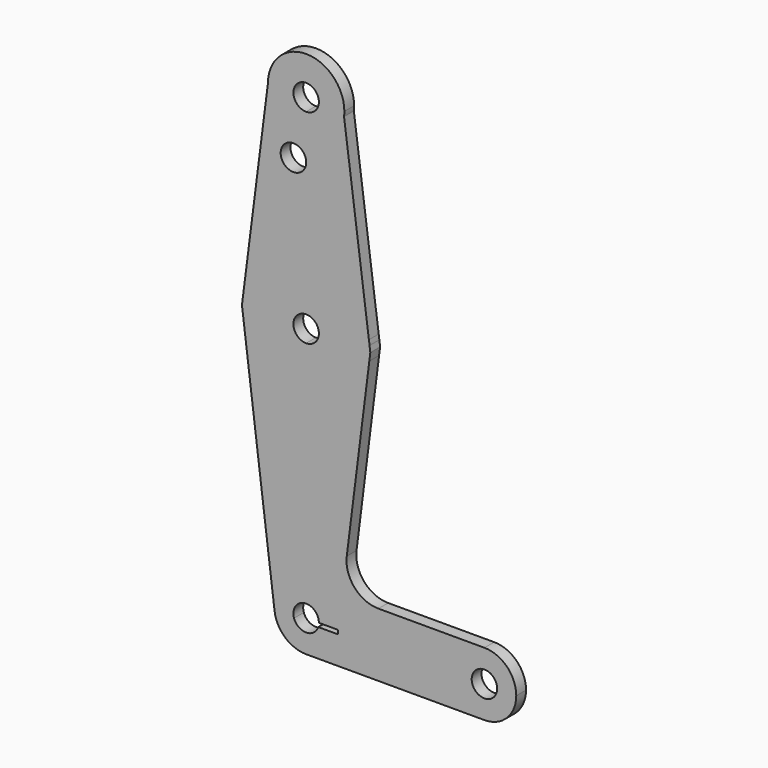
from build123d import *

# Parameters (mm, degrees)
F0_R     = 3.175
F1_DEPTH = 3.048


with BuildPart() as f1:
    # F0 (on Front) → F1 (new body)
    with BuildSketch(Plane.XZ):
        with BuildLine():
            ThreePointArc((-9.525, 50.8), (-6.7351920908, 44.0648079092), (0, 41.275))
            ThreePointArc((0, 41.275), (6.3093081085, 43.6642970779), (9.4533014816, 49.6335026369))
            ThreePointArc((9.4533014816, 49.6335026369), (9.5070584728, 50.2156506234), (9.525, 50.8))
            ThreePointArc((9.525, 50.8), (0, 60.325), (-9.525, 50.8))
        make_face()
        with BuildLine():
            ThreePointArc((3.175, 50.8), (2.2450640303, 48.5549359697), (0, 47.625))
            ThreePointArc((0, 47.625), (-2.2450640303, 53.0450640303), (3.175, 50.8))
        make_face(mode=Mode.SUBTRACT)
        with BuildLine():
            ThreePointArc((9.4533014816, 49.6335026369), (6.3093081085, 43.6642970779), (0, 41.275))
            Line((0, 41.275), (0, 36.5252))
            Line((0, 36.5252), (0, 15.875))
            ThreePointArc((0, 15.875), (10.2323349377, 12.1373368876), (15.646399532, 2.6843633667))
            Line((15.646399532, 2.6843633667), (9.4533014816, 49.6335026369))
        make_face()
        with BuildLine():
            Line((0, 36.5252), (0, 41.275))
            ThreePointArc((0, 41.275), (-6.7351920908, 44.0648079092), (-9.525, 50.8))
            Line((-9.525, 50.8), (-15.7474569171, 2.008289233))
            ThreePointArc((-15.7474569171, 2.008289233), (-10.4912828917, 11.9142187443), (0, 15.875))
            Line((0, 15.875), (0, 36.5252))
        make_face()
        with Locations((-3.175, 36.5252)):
            Circle(F0_R, mode=Mode.SUBTRACT)
        with BuildLine():
            ThreePointArc((15.646399532, 2.6843633667), (10.2323349377, 12.1373368876), (0, 15.875))
            Line((0, 15.875), (0, 3.175))
            ThreePointArc((0, 3.175), (2.2450640303, 2.2450640303), (3.175, 0))
            ThreePointArc((3.175, 0), (2.2450640303, -2.2450640303), (0, -3.175))
            Line((0, -3.175), (0, -15.875))
            ThreePointArc((0, -15.875), (10.5003255684, -11.9062499536), (15.7504882912, -1.9843748607))
            ThreePointArc((15.7504882912, -1.9843748607), (15.8438414948, -0.9941386666), (15.875, 0))
            ThreePointArc((15.875, 0), (15.8580619796, 0.7331406754), (15.807284063, 1.4647168844))
            Line((15.807284063, 1.4647168844), (15.646399532, 2.6843633667))
        make_face()
        with BuildLine():
            Line((0, 3.175), (0, 15.875))
            ThreePointArc((0, 15.875), (-10.4912828917, 11.9142187443), (-15.7474569171, 2.008289233))
            ThreePointArc((-15.7474569171, 2.008289233), (-11.9142187443, -10.4912828917), (0, -15.875))
            Line((0, -15.875), (0, -3.175))
            ThreePointArc((0, -3.175), (-3.175, 0), (0, 3.175))
        make_face()
        with BuildLine():
            ThreePointArc((0, -15.875), (-11.9142187443, -10.4912828917), (-15.7474569171, 2.008289233))
            Line((-15.7474569171, 2.008289233), (-16.0035761028, 0))
            Line((-16.0035761028, 0), (-7.8751974831, -64.4925577322))
            ThreePointArc((-7.8751974831, -64.4925577322), (-5.9532484095, -58.2499771786), (0, -55.5625))
            Line((0, -55.5625), (0, -15.875))
        make_face()
        with BuildLine():
            ThreePointArc((15.807284063, 1.4647168844), (15.7386605945, 2.0760991524), (15.646399532, 2.6843633667))
            Line((15.646399532, 2.6843633667), (15.807284063, 1.4647168844))
        make_face()
        with BuildLine():
            ThreePointArc((15.7504882912, -1.9843748607), (10.5003255684, -11.9062499536), (0, -15.875))
            Line((0, -15.875), (0, -55.5625))
            ThreePointArc((0, -55.5625), (5.6126600757, -57.8873399243), (7.9375, -63.5))
            Line((7.9375, -63.5), (36.5125, -63.5))
            ThreePointArc((36.5125, -63.5), (38.8373399243, -57.8873399243), (44.45, -55.5625))
            Line((44.45, -55.5625), (18.0149584672, -55.5625))
            ThreePointArc((18.0149584672, -55.5625), (12.0523084668, -52.8708630179), (10.1271139399, -46.6185249989))
            Line((10.1271139399, -46.6185249989), (15.7504882912, -1.9843748607))
        make_face()
        with BuildLine():
            Line((16.0004960243, 0), (15.807284063, 1.4647168844))
            ThreePointArc((15.807284063, 1.4647168844), (15.8580619796, 0.7331406754), (15.875, 0))
            ThreePointArc((15.875, 0), (15.8438414948, -0.9941386666), (15.7504882912, -1.9843748607))
            Line((15.7504882912, -1.9843748607), (16.0004960243, 0))
        make_face()
        with BuildLine():
            Line((0, -60.325), (0, -55.5625))
            ThreePointArc((0, -55.5625), (-5.9532484095, -58.2499771786), (-7.8751974831, -64.4925577322))
            Line((-7.8751974831, -64.4925577322), (-3.0158670641, -64.4925577322))
            ThreePointArc((-3.0158670641, -64.4925577322), (-2.5721582183, -61.6386491196), (0, -60.325))
        make_face()
        with BuildLine():
            Line((-3.0158670641, -64.4925577322), (-7.8751974831, -64.4925577322))
            ThreePointArc((-7.8751974831, -64.4925577322), (-5.2500228214, -69.4532484095), (0, -71.4375))
            ThreePointArc((0, -71.4375), (5.2500228214, -69.4532484095), (7.8751974831, -64.4925577322))
            Line((7.8751974831, -64.4925577322), (3.0158670641, -64.4925577322))
            ThreePointArc((3.0158670641, -64.4925577322), (0, -66.675), (-3.0158670641, -64.4925577322))
        make_face()
        with BuildLine():
            Line((36.5125, -63.5), (7.9375, -63.5))
            ThreePointArc((7.9375, -63.5), (7.9219090588, -63.997255582), (7.8751974831, -64.4925577322))
            ThreePointArc((7.8751974831, -64.4925577322), (5.2500228214, -69.4532484095), (0, -71.4375))
            Line((0, -71.4375), (44.45, -71.4375))
            ThreePointArc((44.45, -71.4375), (38.8373399243, -69.1126600757), (36.5125, -63.5))
        make_face()
        with BuildLine():
            ThreePointArc((44.45, -55.5625), (38.8373399243, -57.8873399243), (36.5125, -63.5))
            ThreePointArc((36.5125, -63.5), (38.8373399243, -69.1126600757), (44.45, -71.4375))
            ThreePointArc((44.45, -71.4375), (50.0626600757, -69.1126600757), (52.3875, -63.5))
            ThreePointArc((52.3875, -63.5), (50.0626600757, -57.8873399243), (44.45, -55.5625))
        make_face()
        with BuildLine():
            ThreePointArc((47.625, -63.5), (44.45, -66.675), (41.275, -63.5))
            ThreePointArc((41.275, -63.5), (44.45, -60.325), (47.625, -63.5))
        make_face(mode=Mode.SUBTRACT)
        with BuildLine():
            ThreePointArc((7.9375, -63.5), (5.6126600757, -57.8873399243), (0, -55.5625))
            Line((0, -55.5625), (0, -60.325))
            ThreePointArc((0, -60.325), (2.2450640303, -61.2549359697), (3.175, -63.5))
            Line((3.175, -63.5), (7.9375, -63.5))
        make_face()
    extrude(amount=F1_DEPTH)


solid = f1.part
